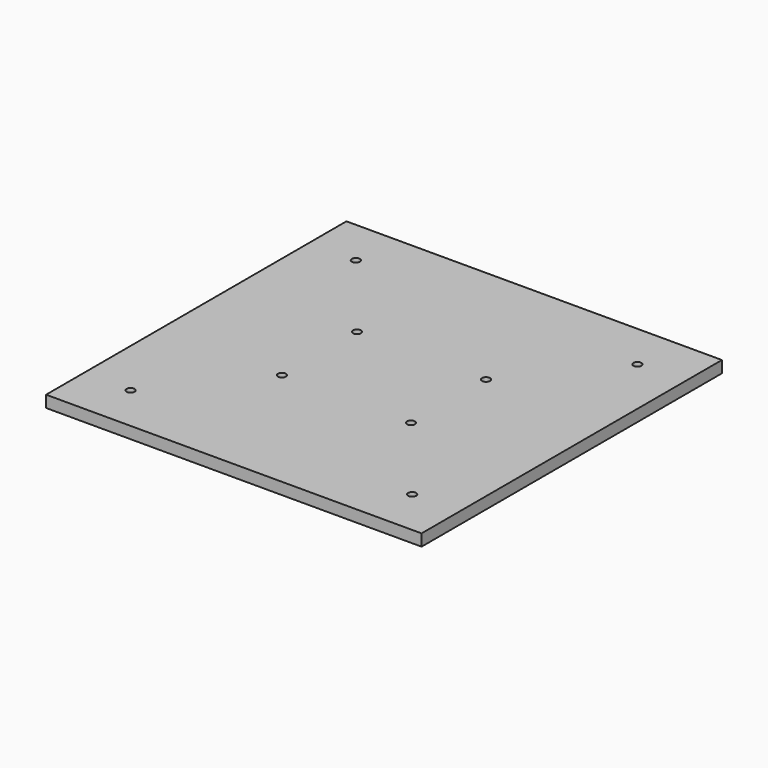
from build123d import *

# Parameters (mm, degrees)
F1_DEPTH  = 304.8
F2_R      = 3.2385
F3_DEPTH  = 9.525
F4_R      = 3.2385
F5_DEPTH  = 9.525
F7_R      = 6.35
F8_DEPTH  = 304.801
F9_R      = 4.78155
F10_DEPTH = 304.801


with BuildPart() as f1:
    # F0 (on Front) → F1 (new body)
    with BuildSketch(Plane.XZ):
        Polygon((-152.4, 0), (-142.875, 0), (142.875, 0), (152.4, 0), (152.4, 9.525), (-152.4, 9.525), align=None)
    extrude(amount=F1_DEPTH)

    # F2 (on face) → F3 (cut, through all)
    with BuildSketch(Plane.XY.offset(9.525)):
        with Locations((-52.3875, -114.3)):
            Circle(F2_R)
        with Locations((52.3875, -114.3)):
            Circle(F2_R)
        with Locations((-52.3875, -190.5)):
            Circle(F2_R)
        with Locations((52.3875, -190.5)):
            Circle(F2_R)
    extrude(amount=-F3_DEPTH, mode=Mode.SUBTRACT)

    # F4 (on face) → F5 (cut, through all)
    with BuildSketch(Plane.XY.offset(9.525)):
        with Locations((-114.3, -38.1)):
            Circle(F4_R)
        with Locations((114.3, -38.1)):
            Circle(F4_R)
        with Locations((-114.3, -266.7)):
            Circle(F4_R)
        with Locations((114.3, -266.7)):
            Circle(F4_R)
    extrude(amount=-F5_DEPTH, mode=Mode.SUBTRACT)

    # F7 (on face) → F8 (cut, through all)
    with BuildSketch(Plane(origin=(-152.4, 0, 0), x_dir=(0, -1, 0), z_dir=(-1, 0, 0))):
        with Locations((38.1, 37.703125)):
            Circle(F7_R)
        with Locations((266.7147, 37.703125)):
            Circle(F7_R)
    extrude(amount=-F8_DEPTH, mode=Mode.SUBTRACT)

    # F9 (on face) → F10 (cut, through all)
    with BuildSketch(Plane(origin=(-152.4, 0, 0), x_dir=(0, -1, 0), z_dir=(-1, 0, 0))):
        with Locations((100.0125, 247.65)):
            Circle(F9_R)
        with Locations((204.7875, 247.65)):
            Circle(F9_R)
        with Locations((100.0125, 228.6)):
            Circle(F9_R)
        with Locations((204.7875, 228.6)):
            Circle(F9_R)
        with Locations((100.0125, 209.55)):
            Circle(F9_R)
        with Locations((204.7875, 209.55)):
            Circle(F9_R)
    extrude(amount=-F10_DEPTH, mode=Mode.SUBTRACT)


solid = f1.part
